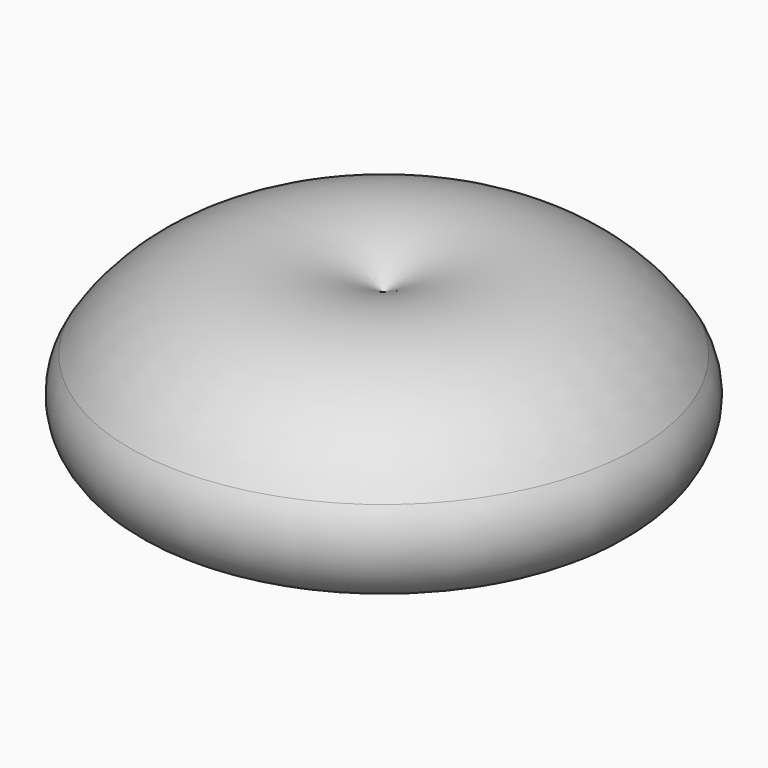
from build123d import *


with BuildPart() as f2:
    # F1 (on Front) → F2 (revolve)
    with BuildSketch(Plane.XZ):
        with BuildLine():
            Line((0, 0), (0, 1.714522))
            ThreePointArc((0, 1.714522), (-4.352483, 2.501956), (-8, 0))
            Line((-8, 0), (0, 0))
        make_face()
        with BuildLine():
            Line((0, 0), (-8, 0))
            ThreePointArc((-8, 0), (-6.874463, -3.018633), (-4.327091, -1.046356))
            Line((-4.327091, -1.046356), (0, -1.046356))
            Line((0, -1.046356), (0, 0))
        make_face()
    revolve(axis=Axis((0, 0, 20.823045), (0, 0, 1)))


solid = f2.part
